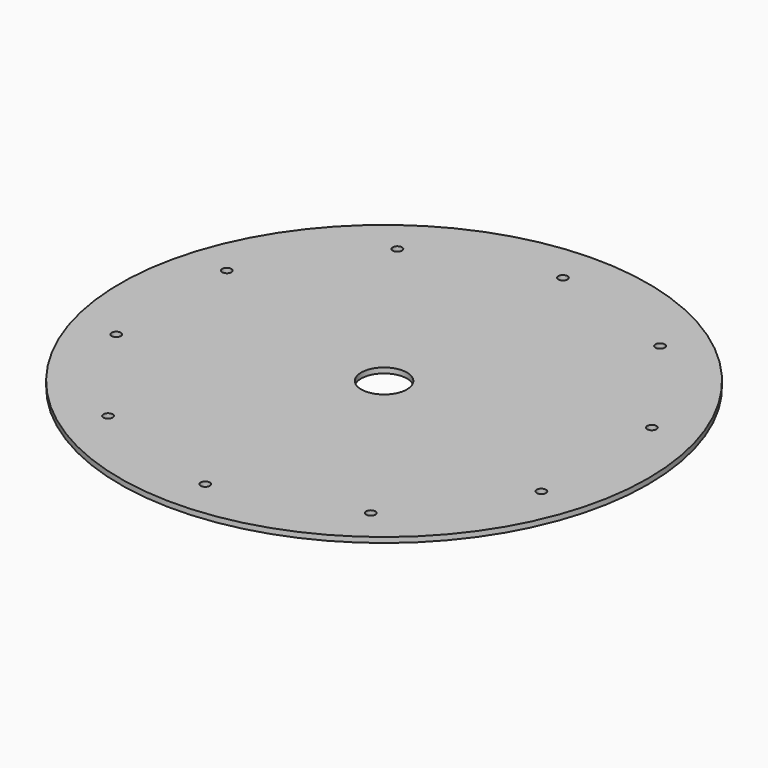
from build123d import *

# Parameters (mm, degrees)
F0_R     = 300
F0_R_2   = 5.25
F0_R_3   = 26
F1_DEPTH = 6


with BuildPart() as f1:
    # F0 (on Top) → F1 (new body)
    with BuildSketch(Plane.XY):
        Circle(F0_R)
        with Locations((-149.297454, -205.490317)):
            Circle(F0_R_2, mode=Mode.SUBTRACT)
        with Locations((-241.568355, -78.490317)):
            Circle(F0_R_2, mode=Mode.SUBTRACT)
        with Locations((0, -254)):
            Circle(F0_R_2, mode=Mode.SUBTRACT)
        with Locations((149.297454, -205.490317)):
            Circle(F0_R_2, mode=Mode.SUBTRACT)
        with Locations((241.568355, -78.490317)):
            Circle(F0_R_2, mode=Mode.SUBTRACT)
        with Locations((-241.568355, 78.490317)):
            Circle(F0_R_2, mode=Mode.SUBTRACT)
        with Locations((-149.297454, 205.490317)):
            Circle(F0_R_2, mode=Mode.SUBTRACT)
        Circle(F0_R_3, mode=Mode.SUBTRACT)
        with Locations((241.568355, 78.490317)):
            Circle(F0_R_2, mode=Mode.SUBTRACT)
        with Locations((149.297454, 205.490317)):
            Circle(F0_R_2, mode=Mode.SUBTRACT)
        with Locations((0, 254)):
            Circle(F0_R_2, mode=Mode.SUBTRACT)
    extrude(amount=F1_DEPTH)


solid = f1.part
